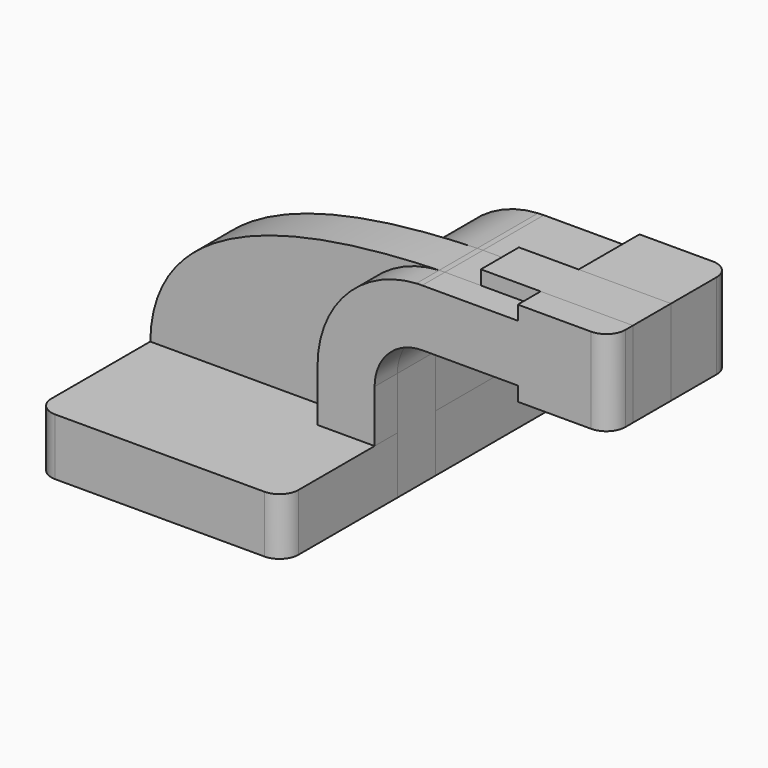
from build123d import *

# Parameters (mm, degrees)
F1_DEPTH = 63.5
F0_W     = 19.9607688333
F0_H     = 19.05
F2_DEPTH = 25.4
F0_H_2   = 4.7498
F0_H_3   = 4.7752
F3_DEPTH = 15.875
F4_R     = 6.35
F5_R     = 6.35
F5_2_R   = 6.35


with BuildPart() as f1:
    # F0 (on Front) → F1 (new body, symmetric)
    with BuildSketch(Plane.XZ):
        Polygon((22.225, 9.525), (-41.275, 9.525), (-41.275, -9.525), (41.275, -9.525), (41.275, 9.525), align=None)
    extrude(amount=F1_DEPTH, both=True)

    # F4
    f4_edges = [f1.edges().sort_by_distance(p)[0] for p in [
        (41.275, -63.5, 0),
        (-41.275, -63.5, 0),
    ]]
    fillet(f4_edges, radius=F4_R)

    # F5
    f5_edges = [f1.edges().sort_by_distance(p)[0] for p in [
        (-41.275, 63.5, 0),
        (41.275, 63.5, 0),
    ]]
    fillet(f5_edges, radius=F5_R)


with BuildPart() as f2:
    # F0 (on Front) → F2 (new body, symmetric)
    with BuildSketch(Plane.XZ):
        with BuildLine():
            Line((22.225, 27.0002), (22.225, 9.525))
            Line((22.225, 9.525), (41.275, 9.525))
            Line((41.275, 9.525), (41.275, 27.0002))
            ThreePointArc((41.275, 27.0002), (45.9246798487, 38.2255201513), (57.15, 42.8752))
            Line((57.15, 42.8752), (69.1451832609, 42.8752))
            Line((69.1451832609, 42.8752), (69.1451832609, 61.9252))
            Line((69.1451832609, 61.9252), (57.15, 61.9252))
            add(Edge.make_bspline(
                [(55.2183471254, 61.8717405764), (55.8684330606, 61.8913124255), (56.5124503776, 61.9090795737), (57.15, 61.9252)],
                knots=[109.6132876534, 109.6132876534, 109.6132876534, 109.6132876534, 111.5045361635, 111.5045361635, 111.5045361635, 111.5045361635], degree=3))
            ThreePointArc((55.2183471254, 61.8717405764), (31.7805439392, 51.0032482268), (22.225, 27.0002))
        make_face()
        Polygon((89.1059520942, 66.675), (89.1059520942, 61.9252), (89.1059520942, 42.8752), (89.1059520942, 38.1), (119.9451832609, 38.1), (119.9451832609, 66.675), align=None)
        with Locations((79.1255676775, 52.4002)):
            Rectangle(F0_W, F0_H)
    extrude(amount=F2_DEPTH, both=True)

    # F5#2
    f5_2_edges = [f2.edges().sort_by_distance(p)[0] for p in [
        (119.945183, 25.4, 52.3875),
        (119.945183, -25.4, 52.3875),
    ]]
    fillet(f5_2_edges, radius=F5_2_R)


with BuildPart() as f3:
    # F0 (on Front) → F3 (new body)
    with BuildSketch(Plane.XZ):
        with BuildLine():
            add(Edge.make_bspline(
                [(-41.275, 9.525), (-40.5226152352, 53.5407855983), (17.5405611339, 60.7373921763), (55.2183471254, 61.8717405764)],
                knots=[0, 0, 0, 0, 109.6132876534, 109.6132876534, 109.6132876534, 109.6132876534], degree=3))
            Line((-41.275, 9.525), (22.225, 9.525))
            Line((22.225, 9.525), (22.225, 27.0002))
            ThreePointArc((22.225, 27.0002), (31.7805439392, 51.0032482268), (55.2183471254, 61.8717405764))
        make_face()
        Polygon((22.225, 9.525), (-41.275, 9.525), (-41.275, -9.525), (41.275, -9.525), (41.275, 9.525), align=None)
        with BuildLine():
            Line((22.225, 27.0002), (22.225, 9.525))
            Line((22.225, 9.525), (41.275, 9.525))
            Line((41.275, 9.525), (41.275, 27.0002))
            ThreePointArc((41.275, 27.0002), (45.9246798487, 38.2255201513), (57.15, 42.8752))
            Line((57.15, 42.8752), (69.1451832609, 42.8752))
            Line((69.1451832609, 42.8752), (69.1451832609, 61.9252))
            Line((69.1451832609, 61.9252), (57.15, 61.9252))
            add(Edge.make_bspline(
                [(55.2183471254, 61.8717405764), (55.8684330606, 61.8913124255), (56.5124503776, 61.9090795737), (57.15, 61.9252)],
                knots=[109.6132876534, 109.6132876534, 109.6132876534, 109.6132876534, 111.5045361635, 111.5045361635, 111.5045361635, 111.5045361635], degree=3))
            ThreePointArc((55.2183471254, 61.8717405764), (31.7805439392, 51.0032482268), (22.225, 27.0002))
        make_face()
        with BuildLine():
            ThreePointArc((57.15, 61.9252), (56.1838037547, 61.9118325859), (55.2183471254, 61.8717405764))
            add(Edge.make_bspline(
                [(55.2183471254, 61.8717405764), (55.8684330606, 61.8913124255), (56.5124503776, 61.9090795737), (57.15, 61.9252)],
                knots=[109.6132876534, 109.6132876534, 109.6132876534, 109.6132876534, 111.5045361635, 111.5045361635, 111.5045361635, 111.5045361635], degree=3))
        make_face()
        with Locations((79.1255676775, 52.4002)):
            Rectangle(F0_W, F0_H)
        with Locations((79.1255676775, 64.3001)):
            Rectangle(F0_W, F0_H_2)
        with Locations((79.1255676775, 40.4876)):
            Rectangle(F0_W, F0_H_3)
        Polygon((89.1059520942, 66.675), (89.1059520942, 61.9252), (89.1059520942, 42.8752), (89.1059520942, 38.1), (119.9451832609, 38.1), (119.9451832609, 66.675), align=None)
    extrude(amount=F3_DEPTH)


solid = Compound([f1.part, f2.part, f3.part])
